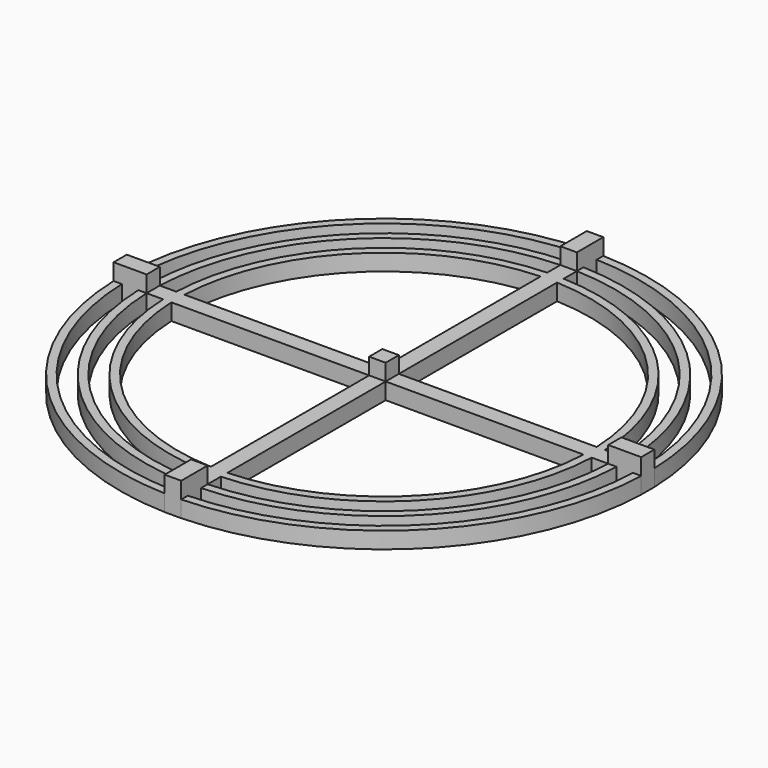
from build123d import *

# Parameters (mm, degrees)
F0_W     = 6.35
F0_H     = 6.35
F1_DEPTH = 6.35
F2_W     = 12.7070930267
F2_H     = 6.35
F2_W_2   = 6.35
F2_H_2   = 12.7070930267
F3_DEPTH = 6.35


with BuildPart() as f1:
    # F0 (on Top) → F1 (new body)
    with BuildSketch(Plane.XY):
        with BuildLine():
            ThreePointArc((-101.5503785074, -3.175), (-71.8420489686, -71.8420489686), (-3.175, -101.5503785074))
            Line((-3.175, -101.5503785074), (-3.175, -98.3737769937))
            ThreePointArc((-3.175, -98.3737769937), (-69.5969849383, -69.5969849383), (-98.3737769937, -3.175))
            Line((-98.3737769937, -3.175), (-101.5503785074, -3.175))
        make_face()
        with BuildLine():
            Line((-3.175, 98.3737769937), (-3.175, 101.5503785074))
            ThreePointArc((-3.175, 101.5503785074), (-71.8420489686, 71.8420489686), (-101.5503785074, 3.175))
            Line((-101.5503785074, 3.175), (-98.3737769937, 3.175))
            ThreePointArc((-98.3737769937, 3.175), (-69.5969849383, 69.5969849383), (-3.175, 98.3737769937))
        make_face()
        with BuildLine():
            Line((-98.3737769937, 3.175), (-101.5503785074, 3.175))
            Line((-101.5503785074, 3.175), (-101.5503785074, -3.175))
            Line((-101.5503785074, -3.175), (-98.3737769937, -3.175))
            ThreePointArc((-98.3737769937, -3.175), (-98.425, 0), (-98.3737769937, 3.175))
        make_face()
        with BuildLine():
            Line((-92.0202423383, 3.175), (-98.3737769937, 3.175))
            ThreePointArc((-98.3737769937, 3.175), (-98.425, 0), (-98.3737769937, -3.175))
            Line((-98.3737769937, -3.175), (-92.0202423383, -3.175))
            ThreePointArc((-92.0202423383, -3.175), (-92.075, 0), (-92.0202423383, 3.175))
        make_face()
        with BuildLine():
            Line((-88.8432854807, 3.175), (-92.0202423383, 3.175))
            ThreePointArc((-92.0202423383, 3.175), (-92.075, 0), (-92.0202423383, -3.175))
            Line((-92.0202423383, -3.175), (-88.8432854807, -3.175))
            ThreePointArc((-88.8432854807, -3.175), (-88.9, 0), (-88.8432854807, 3.175))
        make_face()
        with BuildLine():
            Line((-79.3114745797, 3.175), (-82.4889197105, 3.175))
            ThreePointArc((-82.4889197105, 3.175), (-82.55, 0), (-82.4889197105, -3.175))
            Line((-82.4889197105, -3.175), (-79.3114745797, -3.175))
            ThreePointArc((-79.3114745797, -3.175), (-79.375, 0), (-79.3114745797, 3.175))
        make_face()
        with BuildLine():
            Line((-82.4889197105, 3.175), (-88.8432854807, 3.175))
            ThreePointArc((-88.8432854807, 3.175), (-88.9, 0), (-88.8432854807, -3.175))
            Line((-88.8432854807, -3.175), (-82.4889197105, -3.175))
            ThreePointArc((-82.4889197105, -3.175), (-82.55, 0), (-82.4889197105, 3.175))
        make_face()
        with BuildLine():
            Line((-3.175, -3.175), (-3.175, 3.175))
            Line((-3.175, 3.175), (-79.3114745797, 3.175))
            ThreePointArc((-79.3114745797, 3.175), (-79.375, 0), (-79.3114745797, -3.175))
            Line((-79.3114745797, -3.175), (-3.175, -3.175))
        make_face()
        with BuildLine():
            ThreePointArc((79.375, 0), (79.3591170558, 1.5878177225), (79.3114745797, 3.175))
            Line((79.3114745797, 3.175), (3.175, 3.175))
            Line((3.175, 3.175), (3.175, -3.175))
            Line((3.175, -3.175), (79.3114745797, -3.175))
            ThreePointArc((79.3114745797, -3.175), (79.3591170558, -1.5878177225), (79.375, 0))
        make_face()
        with BuildLine():
            ThreePointArc((-3.175, -79.3114745797), (0, -79.375), (3.175, -79.3114745797))
            Line((3.175, -79.3114745797), (3.175, -3.175))
            Line((3.175, -3.175), (-3.175, -3.175))
            Line((-3.175, -3.175), (-3.175, -79.3114745797))
        make_face()
        with BuildLine():
            Line((3.175, 3.175), (3.175, 79.3114745797))
            ThreePointArc((3.175, 79.3114745797), (0, 79.375), (-3.175, 79.3114745797))
            Line((-3.175, 79.3114745797), (-3.175, 3.175))
            Line((-3.175, 3.175), (3.175, 3.175))
        make_face()
        Rectangle(F0_W, F0_H)
        with BuildLine():
            ThreePointArc((82.55, 0), (82.534728515, 1.5877937367), (82.4889197105, 3.175))
            Line((82.4889197105, 3.175), (79.3114745797, 3.175))
            ThreePointArc((79.3114745797, 3.175), (79.3591170558, 1.5878177225), (79.375, 0))
            ThreePointArc((79.375, 0), (79.3591170558, -1.5878177225), (79.3114745797, -3.175))
            Line((79.3114745797, -3.175), (82.4889197105, -3.175))
            ThreePointArc((82.4889197105, -3.175), (82.534728515, -1.5877937367), (82.55, 0))
        make_face()
        with BuildLine():
            ThreePointArc((88.9, 0), (88.8858202393, 1.5877532504), (88.8432854807, 3.175))
            Line((88.8432854807, 3.175), (82.4889197105, 3.175))
            ThreePointArc((82.4889197105, 3.175), (82.534728515, 1.5877937367), (82.55, 0))
            ThreePointArc((82.55, 0), (82.534728515, -1.5877937367), (82.4889197105, -3.175))
            Line((82.4889197105, -3.175), (88.8432854807, -3.175))
            ThreePointArc((88.8432854807, -3.175), (88.8858202393, -1.5877532504), (88.9, 0))
        make_face()
        with BuildLine():
            ThreePointArc((92.075, 0), (92.0613095668, 1.5877360771), (92.0202423383, 3.175))
            Line((92.0202423383, 3.175), (88.8432854807, 3.175))
            ThreePointArc((88.8432854807, 3.175), (88.8858202393, 1.5877532504), (88.9, 0))
            ThreePointArc((88.9, 0), (88.8858202393, -1.5877532504), (88.8432854807, -3.175))
            Line((88.8432854807, -3.175), (92.0202423383, -3.175))
            ThreePointArc((92.0202423383, -3.175), (92.0613095668, -1.5877360771), (92.075, 0))
        make_face()
        with BuildLine():
            ThreePointArc((98.425, 0), (98.4121934153, 1.5877065847), (98.3737769937, 3.175))
            Line((98.3737769937, 3.175), (92.0202423383, 3.175))
            ThreePointArc((92.0202423383, 3.175), (92.0613095668, 1.5877360771), (92.075, 0))
            ThreePointArc((92.075, 0), (92.0613095668, -1.5877360771), (92.0202423383, -3.175))
            Line((92.0202423383, -3.175), (98.3737769937, -3.175))
            ThreePointArc((98.3737769937, -3.175), (98.4121934153, -1.5877065847), (98.425, 0))
        make_face()
        with BuildLine():
            Line((101.5503785074, -3.175), (101.5503785074, 3.175))
            Line((101.5503785074, 3.175), (98.3737769937, 3.175))
            ThreePointArc((98.3737769937, 3.175), (98.4121934153, 1.5877065847), (98.425, 0))
            ThreePointArc((98.425, 0), (98.4121934153, -1.5877065847), (98.3737769937, -3.175))
            Line((98.3737769937, -3.175), (101.5503785074, -3.175))
        make_face()
        with BuildLine():
            Line((-3.175, -101.5503785074), (3.175, -101.5503785074))
            Line((3.175, -101.5503785074), (3.175, -98.3737769937))
            ThreePointArc((3.175, -98.3737769937), (0, -98.425), (-3.175, -98.3737769937))
            Line((-3.175, -98.3737769937), (-3.175, -101.5503785074))
        make_face()
        with BuildLine():
            ThreePointArc((-3.175, -92.0202423383), (0, -92.075), (3.175, -92.0202423383))
            Line((3.175, -92.0202423383), (3.175, -88.8432854807))
            ThreePointArc((3.175, -88.8432854807), (0, -88.9), (-3.175, -88.8432854807))
            Line((-3.175, -88.8432854807), (-3.175, -92.0202423383))
        make_face()
        with BuildLine():
            ThreePointArc((-3.175, -82.4889197105), (0, -82.55), (3.175, -82.4889197105))
            Line((3.175, -82.4889197105), (3.175, -79.3114745797))
            ThreePointArc((3.175, -79.3114745797), (0, -79.375), (-3.175, -79.3114745797))
            Line((-3.175, -79.3114745797), (-3.175, -82.4889197105))
        make_face()
        with BuildLine():
            ThreePointArc((3.175, -101.5503785074), (71.8420489686, -71.8420489686), (101.5503785074, -3.175))
            Line((101.5503785074, -3.175), (98.3737769937, -3.175))
            ThreePointArc((98.3737769937, -3.175), (69.5969849383, -69.5969849383), (3.175, -98.3737769937))
            Line((3.175, -98.3737769937), (3.175, -101.5503785074))
        make_face()
        with BuildLine():
            ThreePointArc((3.175, -92.0202423383), (65.1068568778, -65.1068568778), (92.0202423383, -3.175))
            Line((92.0202423383, -3.175), (88.8432854807, -3.175))
            ThreePointArc((88.8432854807, -3.175), (62.8617928475, -62.8617928475), (3.175, -88.8432854807))
            Line((3.175, -88.8432854807), (3.175, -92.0202423383))
        make_face()
        with BuildLine():
            ThreePointArc((3.175, -82.4889197105), (58.3716647869, -58.3716647869), (82.4889197105, -3.175))
            Line((82.4889197105, -3.175), (79.3114745797, -3.175))
            ThreePointArc((79.3114745797, -3.175), (56.1266007567, -56.1266007567), (3.175, -79.3114745797))
            Line((3.175, -79.3114745797), (3.175, -82.4889197105))
        make_face()
        with BuildLine():
            ThreePointArc((-92.0202423383, -3.175), (-65.1068568778, -65.1068568778), (-3.175, -92.0202423383))
            Line((-3.175, -92.0202423383), (-3.175, -88.8432854807))
            ThreePointArc((-3.175, -88.8432854807), (-62.8617928475, -62.8617928475), (-88.8432854807, -3.175))
            Line((-88.8432854807, -3.175), (-92.0202423383, -3.175))
        make_face()
        with BuildLine():
            ThreePointArc((-82.4889197105, -3.175), (-58.371664787, -58.3716647869), (-3.175, -82.4889197105))
            Line((-3.175, -82.4889197105), (-3.175, -79.3114745797))
            ThreePointArc((-3.175, -79.3114745797), (-56.1266007567, -56.1266007567), (-79.3114745797, -3.175))
            Line((-79.3114745797, -3.175), (-82.4889197105, -3.175))
        make_face()
        with BuildLine():
            Line((-3.175, 79.3114745797), (-3.175, 82.4889197105))
            ThreePointArc((-3.175, 82.4889197105), (-58.371664787, 58.3716647869), (-82.4889197105, 3.175))
            Line((-82.4889197105, 3.175), (-79.3114745797, 3.175))
            ThreePointArc((-79.3114745797, 3.175), (-56.1266007567, 56.1266007567), (-3.175, 79.3114745797))
        make_face()
        with BuildLine():
            Line((-3.175, 88.8432854807), (-3.175, 92.0202423383))
            ThreePointArc((-3.175, 92.0202423383), (-65.1068568778, 65.1068568778), (-92.0202423383, 3.175))
            Line((-92.0202423383, 3.175), (-88.8432854807, 3.175))
            ThreePointArc((-88.8432854807, 3.175), (-62.8617928475, 62.8617928475), (-3.175, 88.8432854807))
        make_face()
        with BuildLine():
            Line((3.175, 79.3114745797), (3.175, 82.4889197105))
            ThreePointArc((3.175, 82.4889197105), (0, 82.55), (-3.175, 82.4889197105))
            Line((-3.175, 82.4889197105), (-3.175, 79.3114745797))
            ThreePointArc((-3.175, 79.3114745797), (0, 79.375), (3.175, 79.3114745797))
        make_face()
        with BuildLine():
            Line((3.175, 88.8432854807), (3.175, 92.0202423383))
            ThreePointArc((3.175, 92.0202423383), (0, 92.075), (-3.175, 92.0202423383))
            Line((-3.175, 92.0202423383), (-3.175, 88.8432854807))
            ThreePointArc((-3.175, 88.8432854807), (0, 88.9), (3.175, 88.8432854807))
        make_face()
        with BuildLine():
            Line((3.175, 98.3737769937), (3.175, 101.5503785074))
            Line((3.175, 101.5503785074), (-3.175, 101.5503785074))
            Line((-3.175, 101.5503785074), (-3.175, 98.3737769937))
            ThreePointArc((-3.175, 98.3737769937), (0, 98.425), (3.175, 98.3737769937))
        make_face()
        with BuildLine():
            Line((98.3737769937, 3.175), (101.5503785074, 3.175))
            ThreePointArc((101.5503785074, 3.175), (71.8420489686, 71.8420489686), (3.175, 101.5503785074))
            Line((3.175, 101.5503785074), (3.175, 98.3737769937))
            ThreePointArc((3.175, 98.3737769937), (69.5969849383, 69.5969849383), (98.3737769937, 3.175))
        make_face()
        with BuildLine():
            Line((88.8432854807, 3.175), (92.0202423383, 3.175))
            ThreePointArc((92.0202423383, 3.175), (65.1068568778, 65.1068568778), (3.175, 92.0202423383))
            Line((3.175, 92.0202423383), (3.175, 88.8432854807))
            ThreePointArc((3.175, 88.8432854807), (62.8617928475, 62.8617928475), (88.8432854807, 3.175))
        make_face()
        with BuildLine():
            Line((79.3114745797, 3.175), (82.4889197105, 3.175))
            ThreePointArc((82.4889197105, 3.175), (58.3716647869, 58.3716647869), (3.175, 82.4889197105))
            Line((3.175, 82.4889197105), (3.175, 79.3114745797))
            ThreePointArc((3.175, 79.3114745797), (56.1266007567, 56.1266007567), (79.3114745797, 3.175))
        make_face()
        with BuildLine():
            ThreePointArc((-3.175, -88.8432854807), (0, -88.9), (3.175, -88.8432854807))
            Line((3.175, -88.8432854807), (3.175, -82.4889197105))
            ThreePointArc((3.175, -82.4889197105), (0, -82.55), (-3.175, -82.4889197105))
            Line((-3.175, -82.4889197105), (-3.175, -88.8432854807))
        make_face()
        with BuildLine():
            ThreePointArc((-3.175, -98.3737769937), (0, -98.425), (3.175, -98.3737769937))
            Line((3.175, -98.3737769937), (3.175, -92.0202423383))
            ThreePointArc((3.175, -92.0202423383), (0, -92.075), (-3.175, -92.0202423383))
            Line((-3.175, -92.0202423383), (-3.175, -98.3737769937))
        make_face()
        with BuildLine():
            Line((3.175, 82.4889197105), (3.175, 88.8432854807))
            ThreePointArc((3.175, 88.8432854807), (0, 88.9), (-3.175, 88.8432854807))
            Line((-3.175, 88.8432854807), (-3.175, 82.4889197105))
            ThreePointArc((-3.175, 82.4889197105), (0, 82.55), (3.175, 82.4889197105))
        make_face()
        with BuildLine():
            Line((3.175, 92.0202423383), (3.175, 98.3737769937))
            ThreePointArc((3.175, 98.3737769937), (0, 98.425), (-3.175, 98.3737769937))
            Line((-3.175, 98.3737769937), (-3.175, 92.0202423383))
            ThreePointArc((-3.175, 92.0202423383), (0, 92.075), (3.175, 92.0202423383))
        make_face()
    extrude(amount=F1_DEPTH)

    # F2 (on face) → F3 (join)
    with BuildSketch(Plane.XY.offset(6.35)):
        with Locations((-95.196831994, 0)):
            Rectangle(F2_W, F2_H)
        with Locations((95.196831994, 0)):
            Rectangle(F2_W, F2_H)
        with Locations((0, 95.196831994)):
            Rectangle(F2_W_2, F2_H_2)
        with Locations((0, -95.196831994)):
            Rectangle(F2_W_2, F2_H_2)
        Rectangle(F2_W_2, F2_H)
    extrude(amount=F3_DEPTH)


solid = f1.part
